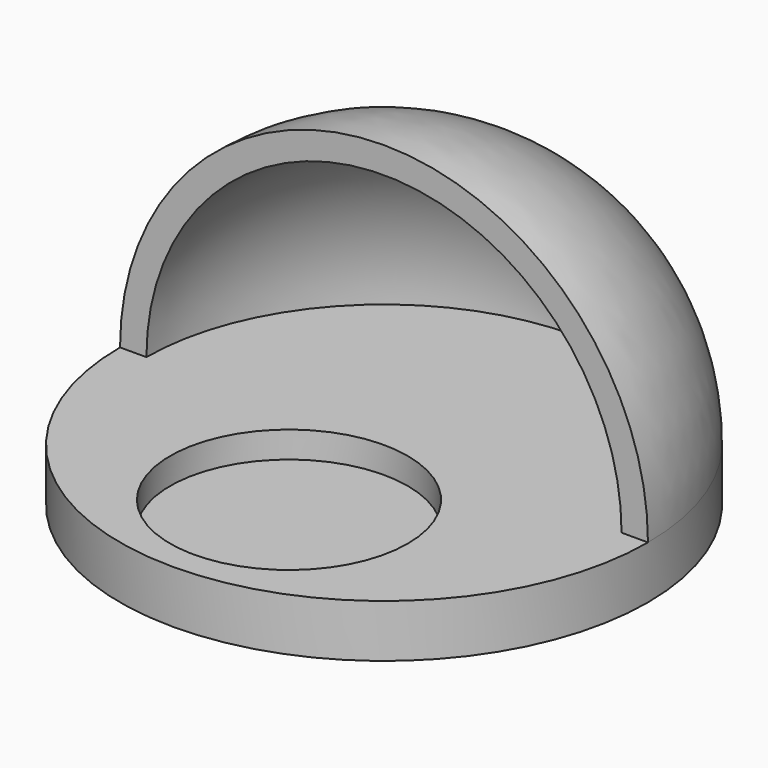
from build123d import *

# Parameters (mm, degrees)
F0_R     = 25.4
F0_R_2   = 11.43
F1_DEPTH = 5.08
F2_DEPTH = 2.54
F4_ANGLE = 180


with BuildPart() as f1:
    # F0 (on Top) → F1 (new body)
    with BuildSketch(Plane.XY):
        Circle(F0_R)
        with Locations((0, -11.43)):
            Circle(F0_R_2, mode=Mode.SUBTRACT)
    extrude(amount=F1_DEPTH)

    # F0 (on Top) → F2 (join)
    with BuildSketch(Plane.XY):
        with Locations((0, -11.43)):
            Circle(F0_R_2)
    extrude(amount=F2_DEPTH)

    # F3 (on face) → F4 (revolve)
    with BuildSketch(Plane.XY.offset(5.08)):
        with BuildLine():
            Line((22.86, 0), (25.4, 0))
            ThreePointArc((25.4, 0), (17.960512, 17.960512), (0, 25.4))
            Line((0, 25.4), (0, 22.86))
            ThreePointArc((0, 22.86), (16.164461, 16.164461), (22.86, 0))
        make_face()
    revolve(axis=Axis((0, 24.13, 5.08), (0, -1, 0)), revolution_arc=F4_ANGLE)


solid = f1.part
